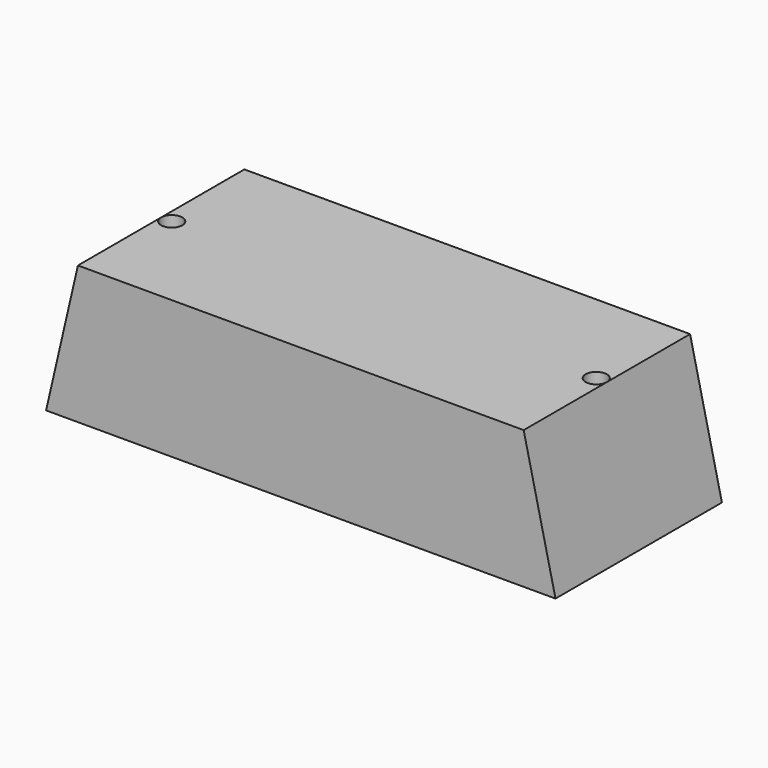
from build123d import *

# Parameters (mm, degrees)
F1_DEPTH = 62.23
F3_R     = 6.35
F4_DEPTH = 82.551


with BuildPart() as f1:
    # F0 (on Front) → F1 (new body, symmetric)
    with BuildSketch(Plane.XZ):
        Polygon((0, 82.55), (0, 0), (152.4, 0), (133.35, 82.55), align=None)
    extrude(amount=F1_DEPTH, both=True)

    # F2: F1 across plane


with BuildPart() as f1_1:
    add(f1.part)
    add(f1.part.mirror(Plane.YZ))

    # F3 (on face) → F4 (cut, through all)
    with BuildSketch(Plane(origin=(0, 0, 0), x_dir=(1, 0, 0), z_dir=(0, 0, -1))):
        with Locations((127, 0)):
            Circle(F3_R)
        with Locations((-127, 0)):
            Circle(F3_R)
    extrude(amount=-F4_DEPTH, mode=Mode.SUBTRACT)


solid = f1_1.part
